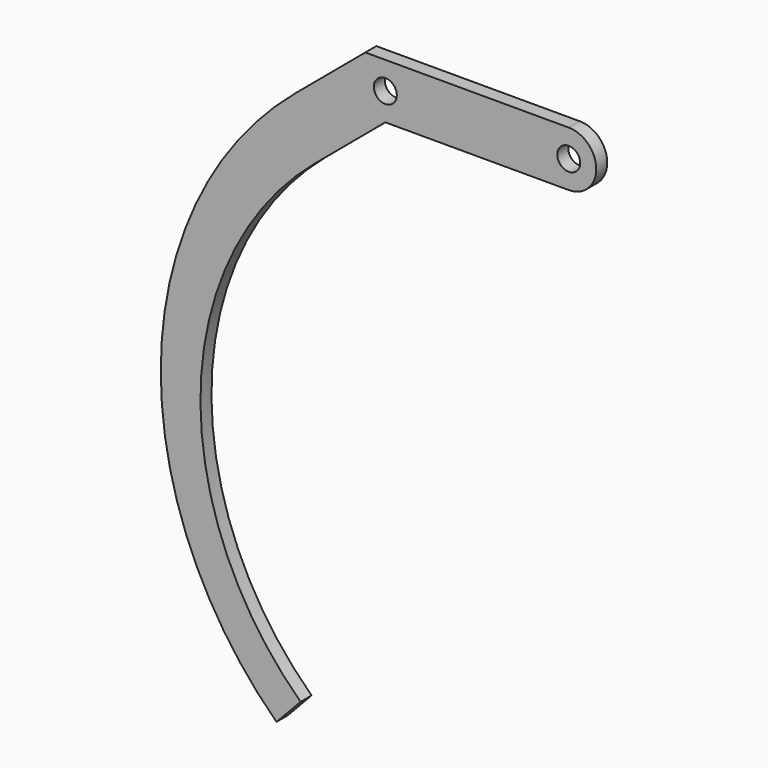
from build123d import *

# Parameters (mm, degrees)
F0_R     = 2.5
F1_DEPTH = 3


with BuildPart() as f1:
    # F0 (on Front) → F1 (new body)
    with BuildSketch(Plane.XZ):
        with BuildLine():
            Line((-40, -6), (0, -6))
            ThreePointArc((0, -6), (6, 0), (0, 6))
            Line((0, 6), (-44.367643, 6))
            Line((-44.367643, 6), (-59.688532, -6.855752))
            ThreePointArc((-59.688532, -6.855752), (-88.934737, -66.948807), (-63.741269, -128.850383))
            Line((-63.741269, -128.850383), (-58.484232, -123.280056))
            ThreePointArc((-58.484232, -123.280056), (-80.29366, -70.359314), (-55.320889, -18.855752))
            Line((-55.320889, -18.855752), (-40, -6))
        make_face()
        with Locations((-40, 0)):
            Circle(F0_R, mode=Mode.SUBTRACT)
        Circle(F0_R, mode=Mode.SUBTRACT)
    extrude(amount=F1_DEPTH)


solid = f1.part
